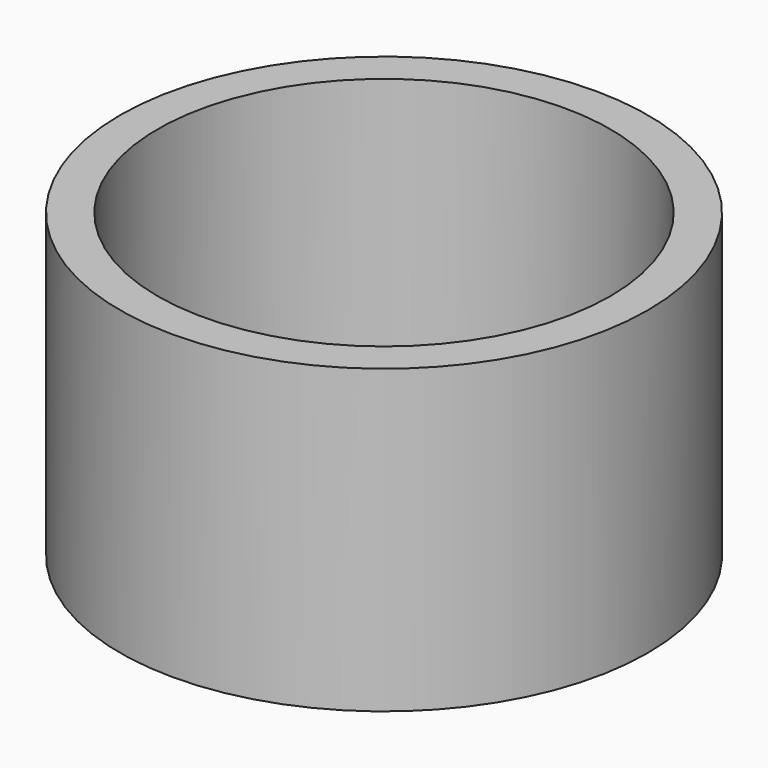
from build123d import *

# Parameters (mm, degrees)
F0_R     = 700
F0_R_2   = 600
F1_DEPTH = 400


with BuildPart() as f1:
    # F0 (on Top) → F1 (new body, symmetric)
    with BuildSketch(Plane.XY):
        with Locations((0, -1.268197)):
            Circle(F0_R)
        with Locations((0, -1.268197)):
            Circle(F0_R_2, mode=Mode.SUBTRACT)
    extrude(amount=F1_DEPTH, both=True)


solid = f1.part
